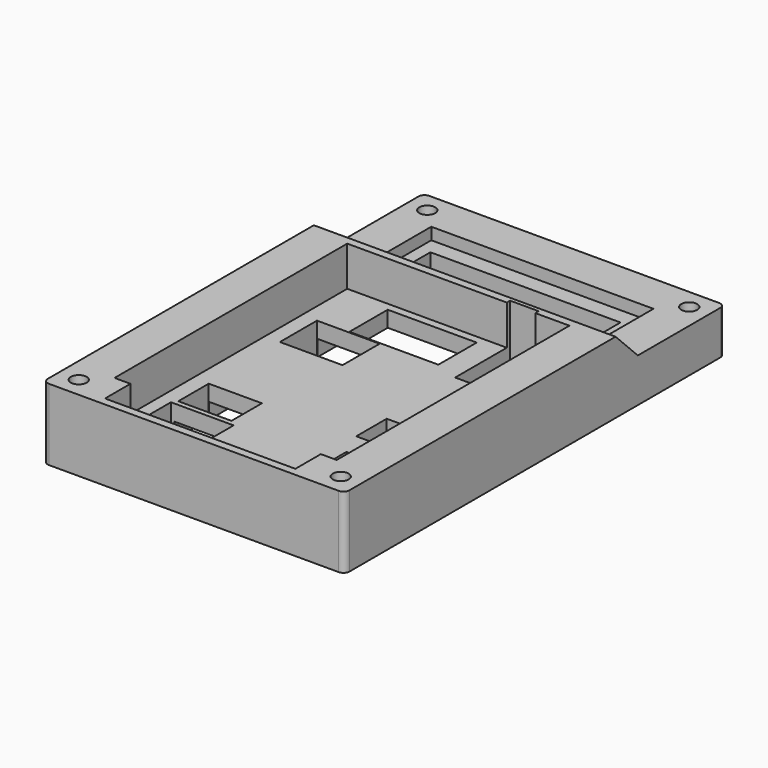
from build123d import *

# Parameters (mm, degrees)
SKETCH002_W     = 37.94
SKETCH002_H     = 59.784
SKETCH002_R     = 1
SKETCH002_W_2   = 23.906
SKETCH002_H_2   = 8.634
SKETCH002_W_3   = 11.189
SKETCH002_H_3   = 6.022
SKETCH002_W_4   = 3.58
SKETCH002_H_4   = 8.639
SKETCH002_W_5   = 6.685
SKETCH002_H_5   = 4.785
SKETCH002_W_6   = 7.878
SKETCH002_H_6   = 5.832
PAD_DEPTH       = 9
SKETCH_W        = 27.94
SKETCH_H        = 36.575
SKETCH_H_2      = 12.209
POCKET_DEPTH    = 5
POCKET001_DEPTH = 37.94
SKETCH004_W     = 23.94
SKETCH004_H     = 45.784
POCKET002_DEPTH = 2
SKETCH005_W     = 23.94
SKETCH005_H     = 4
POCKET003_DEPTH = 5
FILLET_R        = 0.75


with BuildPart() as part:
    # Sketch002 → Pad (new body)
    with BuildSketch(Plane.XY.offset(9)):
        Rectangle(SKETCH002_W, SKETCH002_H)
        with Locations((-16.47, 27.392)):
            Circle(SKETCH002_R, mode=Mode.SUBTRACT)
        with Locations((16.47, 27.392)):
            Circle(SKETCH002_R, mode=Mode.SUBTRACT)
        with Locations((-16.47, -27.392)):
            Circle(SKETCH002_R, mode=Mode.SUBTRACT)
        with Locations((16.47, -27.392)):
            Circle(SKETCH002_R, mode=Mode.SUBTRACT)
        with Locations((-0.493, 18.53)):
            Rectangle(SKETCH002_W_2, SKETCH002_H_2, mode=Mode.SUBTRACT)
        with Locations((-2.4905, 7.679)):
            Rectangle(SKETCH002_W_3, SKETCH002_H_3, mode=Mode.SUBTRACT)
        with Locations((7.885, 7.8825)):
            Rectangle(SKETCH002_W_4, SKETCH002_H_4, mode=Mode.SUBTRACT)
        with Locations((9.428, -19.7805)):
            Rectangle(SKETCH002_W_4, SKETCH002_H_4, mode=Mode.SUBTRACT)
        with Locations((9.6625, -9.8675)):
            Rectangle(SKETCH002_W_5, SKETCH002_H_5, mode=Mode.SUBTRACT)
        with Locations((-8.6435, -14.9585)):
            Rectangle(SKETCH002_W_5, SKETCH002_H_5, mode=Mode.SUBTRACT)
        with Locations((-8.121, 1.626)):
            Rectangle(SKETCH002_W_6, SKETCH002_H_6, mode=Mode.SUBTRACT)
        with Locations((-8.474, -20.887)):
            Rectangle(SKETCH002_W_6, SKETCH002_H_6, mode=Mode.SUBTRACT)
    extrude(amount=PAD_DEPTH)

    # Sketch (on Face42 of Pad) → Pocket (cut)
    with BuildSketch(Plane.XY.offset(18)):
        with Locations((0, -6.6045)):
            Rectangle(SKETCH_W, SKETCH_H)
        with Locations((0, 18.7875)):
            Rectangle(SKETCH_W, SKETCH_H_2)
    extrude(amount=-POCKET_DEPTH, mode=Mode.SUBTRACT)

    # Sketch003 → Pocket001 (cut)
    with BuildSketch(Plane(origin=(18.97, 0, 9), x_dir=(0, 1, 0), z_dir=(1, 0, 0))):
        Polygon((12.683, 9), (29.892, 9), (29.892, 5.5), (16.183, 5.5), align=None)
    extrude(amount=-POCKET001_DEPTH, mode=Mode.SUBTRACT)

    # Sketch004 → Pocket002 (cut)
    with BuildSketch(Plane(origin=(0, 0, 9), x_dir=(1, 0, 0), z_dir=(0, 0, -1))):
        Rectangle(SKETCH004_W, SKETCH004_H)
    extrude(amount=-POCKET002_DEPTH, mode=Mode.SUBTRACT)

    # Sketch005 (on Face39 of Pocket002) → Pocket003 (cut)
    with BuildSketch(Plane.XY.offset(18)):
        with Locations((0, -26.892)):
            Rectangle(SKETCH005_W, SKETCH005_H)
    extrude(amount=-POCKET003_DEPTH, mode=Mode.SUBTRACT)

    # Fillet
    fillet_edges = [part.edges().sort_by_distance(p)[0] for p in [
        (-18.97, -29.892, 13.5),
        (18.97, -29.892, 13.5),
        (18.97, 29.892, 11.75),
        (-18.97, 29.892, 11.75),
    ]]
    fillet(fillet_edges, radius=FILLET_R)


solid = part.part
